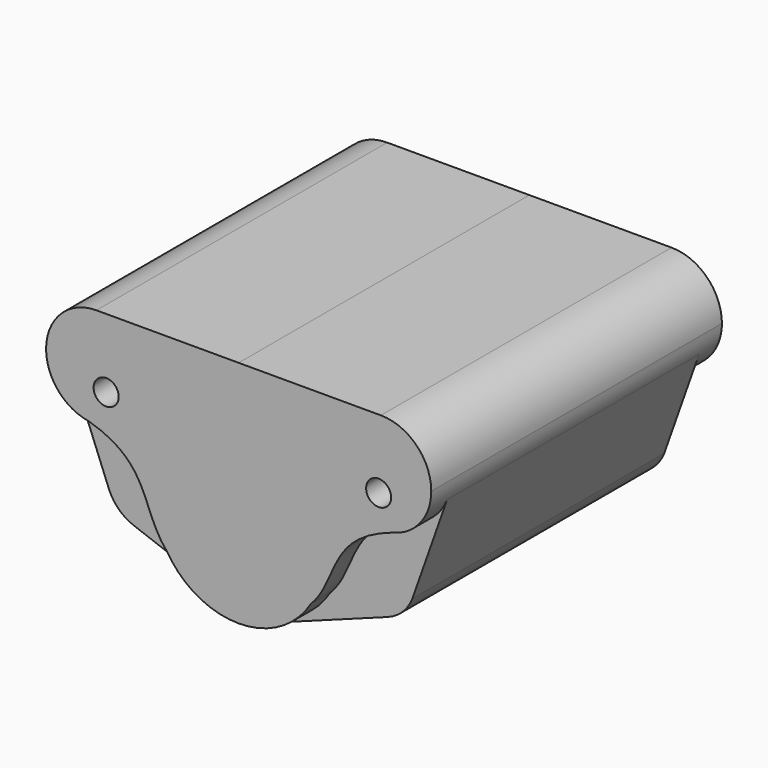
from build123d import *

# Parameters (mm, degrees)
F1_DEPTH = 33.02
F0_R     = 2.6264362
F0_R_2   = 2.6264304873
F2_DEPTH = 38.1


with BuildPart() as f1:
    # F0 (on Front) → F1 (new body, symmetric)
    with BuildSketch(Plane.XZ):
        with BuildLine():
            add(Edge.make_bspline(
                [(-31.4454593495, -10.5763216779), (-18.4102778878, -14.3703602753), (-20.5599198365, -22.9724258326), (-15.1177148521, -29.1741350755)],
                knots=[0, 0, 0, 0, 24.7482101079, 24.7482101079, 24.7482101079, 24.7482101079], degree=3))
            ThreePointArc((-31.4454593495, -10.5763216779), (-36.4175873656, -8.3966690551), (-39.6507896865, -4.035551616))
            Line((-39.6507896865, -4.035551616), (-31.297441197, -25.0651440107))
            ThreePointArc((-31.297441197, -25.0651440107), (-29.241828265, -28.1482147194), (-26.1079207685, -30.1254585901))
            Line((-26.1079207685, -30.1254585901), (-3.0730358258, -38.6095386283))
            ThreePointArc((-3.0730358258, -38.6095386283), (-1.5607510796, -39.0193916461), (0, -39.1573797531))
            Line((0, -39.1573797531), (0, -37.687844526))
            ThreePointArc((0, -37.687844526), (-8.6750871891, -35.4130686309), (-15.1177148521, -29.1741350755))
        make_face()
        with BuildLine():
            ThreePointArc((33.6601813113, -9.9752325779), (32.9890386835, -10.2112882492), (32.3035305265, -10.4016386456))
            add(Edge.make_bspline(
                [(32.3035305265, -10.4016386456), (18.5081026821, -15.0106381958), (21.1109032546, -22.9743855244), (15.1177148521, -29.1741350755)],
                knots=[0.8170048254, 0.8170048254, 0.8170048254, 0.8170048254, 26.6912142755, 26.6912142755, 26.6912142755, 26.6912142755], degree=3))
            ThreePointArc((15.1177148521, -29.1741350755), (8.6750871891, -35.4130686309), (0, -37.687844526))
            Line((0, -37.687844526), (0, -39.1573797531))
            ThreePointArc((0, -39.1573797531), (1.5607053421, -39.0192220029), (3.0729166956, -38.6092152337))
            Line((3.0729166956, -38.6092152337), (27.1625130087, -29.7337906358))
            ThreePointArc((27.1625130087, -29.7337906358), (30.2961519286, -27.7562759529), (32.3514385124, -24.6730869774))
            Line((32.3514385124, -24.6730869774), (39.6400981385, -4.0318907199))
            ThreePointArc((39.6400981385, -4.0318907199), (37.2687025045, -7.6259310267), (33.6601813113, -9.9752325779))
        make_face()
    extrude(amount=F1_DEPTH, both=True)

    # F0 (on Front) → F2 (join, symmetric)
    with BuildSketch(Plane.XZ):
        with BuildLine():
            ThreePointArc((-31.4454593495, -10.5763216779), (-22.9558140486, -8.155960982), (-19.2675045322, -0.1354500166))
            ThreePointArc((-19.2675045322, -0.1354500166), (-22.3620278457, 7.3351409283), (-29.8327647689, 10.4293118073))
            ThreePointArc((-29.8327647689, 10.4293118073), (-38.5736258357, 5.7977470387), (-39.6507896865, -4.035551616))
            ThreePointArc((-39.6507896865, -4.035551616), (-36.4175873656, -8.3966690551), (-31.4454593495, -10.5763216779))
        make_face()
        with Locations((-27.8002675623, -4.0318907199)):
            Circle(F0_R, mode=Mode.SUBTRACT)
        with BuildLine():
            ThreePointArc((-29.8327647689, 10.4293118073), (-22.3620278457, 7.3351409283), (-19.2675045322, -0.1354500166))
            Line((-19.2675045322, -0.1354500166), (0, -0.1354500166))
            Line((0, -0.1354500166), (0, 10.4307191917))
            Line((0, 10.4307191917), (-29.8327647689, 10.4293118073))
        make_face()
        with BuildLine():
            Line((0, 10.4307191917), (0, -0.1354500166))
            Line((0, -0.1354500166), (19.2564770783, -0.1354500166))
            ThreePointArc((19.2564770783, -0.1354500166), (22.3496527134, 7.3366076469), (29.8207401381, 10.4321260089))
            Line((29.8207401381, 10.4321260089), (0, 10.4307191917))
        make_face()
        with BuildLine():
            ThreePointArc((29.8207401381, 10.4321260089), (22.3496527134, 7.3366076469), (19.2564770783, -0.1354500166))
            Line((19.2564770783, -0.1354500166), (40.386, -0.1354500166))
            ThreePointArc((40.386, -0.1354500166), (40.3860002811, -0.1340429158), (40.3860003748, -0.132635815))
            ThreePointArc((40.3860003748, -0.132635815), (37.2914770613, 7.3379551299), (29.8207401381, 10.4321260089))
        make_face()
        with BuildLine():
            Line((40.386, -0.1354500166), (19.2564770783, -0.1354500166))
            ThreePointArc((19.2564770783, -0.1354500166), (23.2882273315, -8.4352834172), (32.3035305265, -10.4016386456))
            add(Edge.make_bspline(
                [(33.6601813113, -9.9752325779), (33.1910900089, -10.1139156622), (32.7391353761, -10.2561047355), (32.3035305265, -10.4016386456)],
                knots=[0, 0, 0, 0, 0.8170048254, 0.8170048254, 0.8170048254, 0.8170048254], degree=3))
            ThreePointArc((33.6601813113, -9.9752325779), (37.2687025045, -7.6259310267), (39.6400981385, -4.0318907199))
            ThreePointArc((39.6400981385, -4.0318907199), (40.1975849298, -2.1189963626), (40.386, -0.1354500166))
        make_face()
        with Locations((29.3497324377, -4.0318907199)):
            Circle(F0_R_2, mode=Mode.SUBTRACT)
        with BuildLine():
            Line((19.2564770783, -0.1354500166), (0, -0.1354500166))
            Line((0, -0.1354500166), (0, -2.329749126))
            ThreePointArc((0, -2.329749126), (12.5009745136, -7.5078223124), (17.6790477, -20.008796826))
            ThreePointArc((17.6790477, -20.008796826), (17.0266780313, -24.7670488997), (15.1177148521, -29.1741350755))
            add(Edge.make_bspline(
                [(32.3035305265, -10.4016386456), (18.5081026821, -15.0106381958), (21.1109032546, -22.9743855244), (15.1177148521, -29.1741350755)],
                knots=[0.8170048254, 0.8170048254, 0.8170048254, 0.8170048254, 26.6912142755, 26.6912142755, 26.6912142755, 26.6912142755], degree=3))
            ThreePointArc((32.3035305265, -10.4016386456), (23.2882273315, -8.4352834172), (19.2564770783, -0.1354500166))
        make_face()
        with BuildLine():
            ThreePointArc((17.6790477, -20.008796826), (12.5009745136, -7.5078223124), (0, -2.329749126))
            Line((0, -2.329749126), (0, -5.484860926))
            ThreePointArc((0, -5.484860926), (10.2699735644, -9.7388232616), (14.5239359, -20.008796826))
            ThreePointArc((14.5239359, -20.008796826), (10.2699735644, -30.2787703904), (0, -34.532732726))
            Line((0, -34.532732726), (0, -37.687844526))
            ThreePointArc((0, -37.687844526), (8.6750871891, -35.4130686309), (15.1177148521, -29.1741350755))
            ThreePointArc((15.1177148521, -29.1741350755), (17.0266780313, -24.7670488997), (17.6790477, -20.008796826))
        make_face()
        with BuildLine():
            Line((0, -0.1354500166), (-19.2675045322, -0.1354500166))
            ThreePointArc((-19.2675045322, -0.1354500166), (-22.9558140486, -8.155960982), (-31.4454593495, -10.5763216779))
            add(Edge.make_bspline(
                [(-31.4454593495, -10.5763216779), (-18.4102778878, -14.3703602753), (-20.5599198365, -22.9724258326), (-15.1177148521, -29.1741350755)],
                knots=[0, 0, 0, 0, 24.7482101079, 24.7482101079, 24.7482101079, 24.7482101079], degree=3))
            ThreePointArc((-15.1177148521, -29.1741350755), (-15.4042718049, -11.3337096369), (0, -2.329749126))
            Line((0, -2.329749126), (0, -0.1354500166))
        make_face()
        with BuildLine():
            Line((0, -5.484860926), (0, -2.329749126))
            ThreePointArc((0, -2.329749126), (-15.4042718049, -11.3337096369), (-15.1177148521, -29.1741350755))
            ThreePointArc((-15.1177148521, -29.1741350755), (-8.6750871891, -35.4130686309), (0, -37.687844526))
            Line((0, -37.687844526), (0, -34.532732726))
            ThreePointArc((0, -34.532732726), (-14.5239359, -20.008796826), (0, -5.484860926))
        make_face()
        with BuildLine():
            Line((0, -34.532732726), (0, -5.484860926))
            ThreePointArc((0, -5.484860926), (-14.5239359, -20.008796826), (0, -34.532732726))
        make_face()
        with BuildLine():
            ThreePointArc((14.5239359, -20.008796826), (10.2699735644, -9.7388232616), (0, -5.484860926))
            Line((0, -5.484860926), (0, -34.532732726))
            ThreePointArc((0, -34.532732726), (10.2699735644, -30.2787703904), (14.5239359, -20.008796826))
        make_face()
    extrude(amount=F2_DEPTH, both=True)


solid = f1.part
